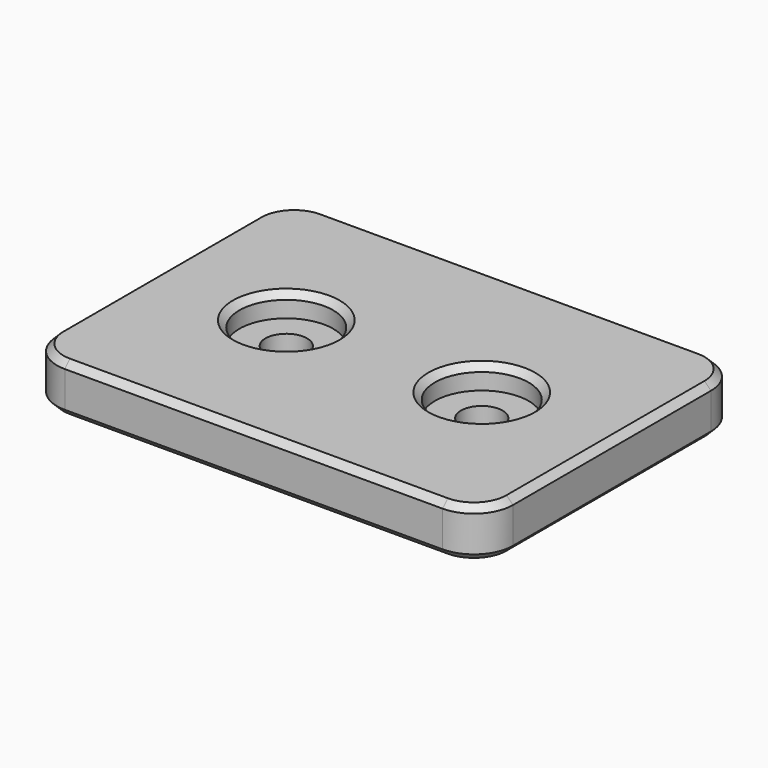
from build123d import *

# Parameters (mm, degrees)
CYLINDER001_R     = 3.6
CYLINDER001_DEPTH = 10
CYLINDER_R        = 1.6
CYLINDER_DEPTH    = 10
BOX_W             = 35
BOX_H             = 25
BOX_DEPTH         = 3.75
FILLET_R          = 3
CHAMFER_SIZE      = 0.5


with BuildPart() as cylinder001:
    # Cylinder001 → Cylinder001 (new body)
    with BuildSketch(Plane(origin=(-7.5, 0, 2), x_dir=(1, 0, 0), z_dir=(0, 0, 1))):
        Circle(CYLINDER001_R)
    extrude(amount=CYLINDER001_DEPTH)


with BuildPart() as fusion:
    # Cylinder → Cylinder (new body)
    with BuildSketch(Plane(origin=(-7.5, 0, -1), x_dir=(1, 0, 0), z_dir=(0, 0, 1))):
        Circle(CYLINDER_R)
    extrude(amount=CYLINDER_DEPTH)

    # Fusion: union Cylinder001
    add(cylinder001.part)


with BuildPart() as part_mirroring:
    # Part__Mirroring: instance of Fusion
    add(fusion.part.mirror(Plane(origin=(0, 0, 0), x_dir=(0, -1, 0), z_dir=(1, 0, 0))))


with BuildPart() as fusion001:
    # Fusion001 base: copy of Fusion
    add(fusion.part)

    # Fusion001: union Part__Mirroring
    add(part_mirroring.part)


with BuildPart() as mountplate:
    # Box → Box (new body)
    with BuildSketch(Plane(origin=(-17.5, -12.5, 0), x_dir=(1, 0, 0), z_dir=(0, 0, 1))):
        with Locations((17.5, 12.5)):
            Rectangle(BOX_W, BOX_H)
    extrude(amount=BOX_DEPTH)

    # Cut001: cut Fusion001
    add(fusion001.part, mode=Mode.SUBTRACT)

    # Fillet
    fillet_edges = [mountplate.edges().sort_by_distance(p)[0] for p in [
        (-17.5, -12.5, 1.875),
        (-17.5, 12.5, 1.875),
        (17.5, -12.5, 1.875),
        (17.5, 12.5, 1.875),
    ]]
    fillet(fillet_edges, radius=FILLET_R)

    # Chamfer
    chamfer_edges = [mountplate.edges().sort_by_distance(p)[0] for p in [
        (-17.5, 0, 3.75),
        (-17.5, 0, 0),
        (-16.62132, -11.62132, 3.75),
        (-16.62132, 11.62132, 3.75),
        (0, -12.5, 3.75),
        (0, 12.5, 3.75),
        (16.62132, -11.62132, 3.75),
        (16.62132, 11.62132, 3.75),
        (17.5, 0, 3.75),
        (-11.1, 0, 3.75),
        (11.1, 0, 3.75),
        (-16.62132, -11.62132, 0),
        (-16.62132, 11.62132, 0),
        (0, -12.5, 0),
        (0, 12.5, 0),
        (16.62132, -11.62132, 0),
        (16.62132, 11.62132, 0),
        (17.5, 0, 0),
        (-9.1, 0, 0),
        (9.1, 0, 0),
    ]]
    chamfer(chamfer_edges, length=CHAMFER_SIZE)


solid = mountplate.part
